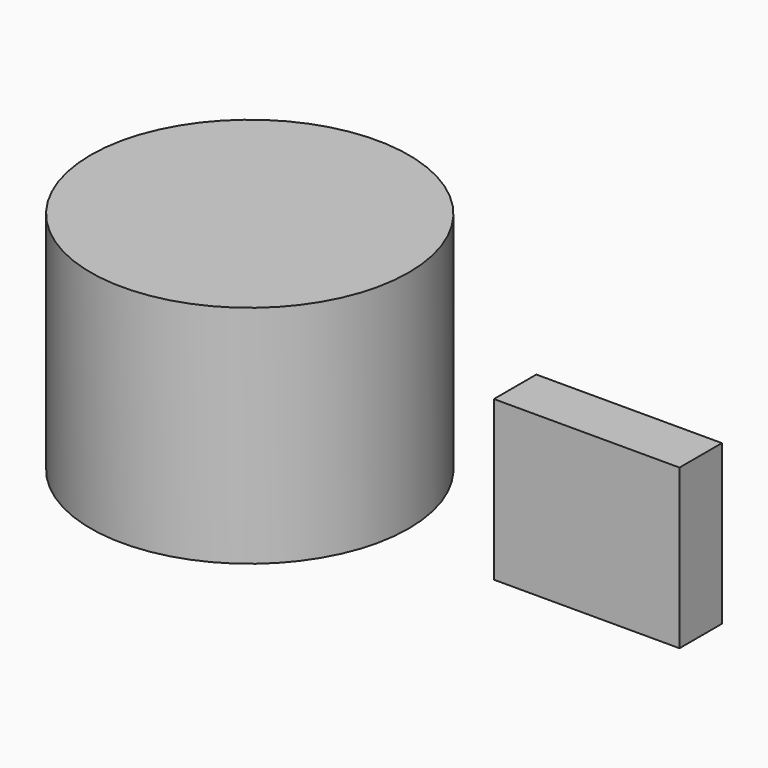
from build123d import *

# Parameters (mm, degrees)
F0_W     = 88.9
F0_H     = 25.4
F1_DEPTH = 38.1
F2_R     = 76.2
F3_DEPTH = 107.95


with BuildPart() as f1:
    # F0 (on Top) → F1 (new body, symmetric)
    with BuildSketch(Plane.XY):
        Rectangle(F0_W, F0_H)
    extrude(amount=F1_DEPTH, both=True)


with BuildPart() as f3:
    # F2 (on Top) → F3 (new body)
    with BuildSketch(Plane.XY):
        with Locations((-125.691585, -57.350496)):
            Circle(F2_R)
    extrude(amount=F3_DEPTH)


solid = Compound([f1.part, f3.part])
